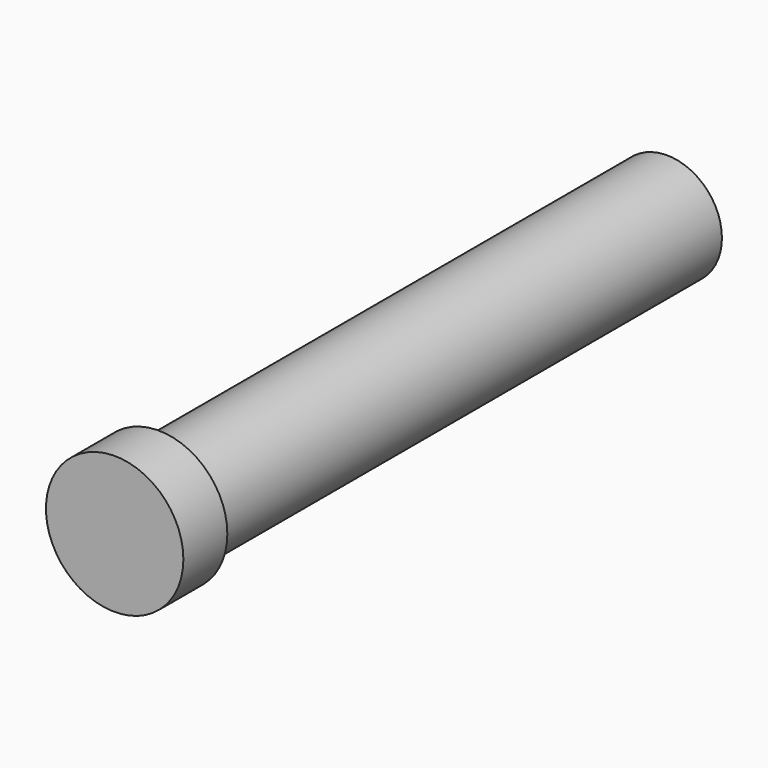
from build123d import *

# Parameters (mm, degrees)
F0_R     = 2
F1_DEPTH = 23
F2_R     = 2.5
F2_R_2   = 2
F3_DEPTH = 2


with BuildPart() as f1:
    # F0 (on Front) → F1 (new body)
    with BuildSketch(Plane.XZ):
        Circle(F0_R)
    extrude(amount=F1_DEPTH)

    # F2 (on face) → F3 (join)
    with BuildSketch(Plane.XZ.offset(23)):
        with Locations((-0.0967943706, 0)):
            Circle(F2_R)
        Circle(F2_R_2, mode=Mode.SUBTRACT)
        Circle(F2_R_2)
    extrude(amount=F3_DEPTH)


solid = f1.part
